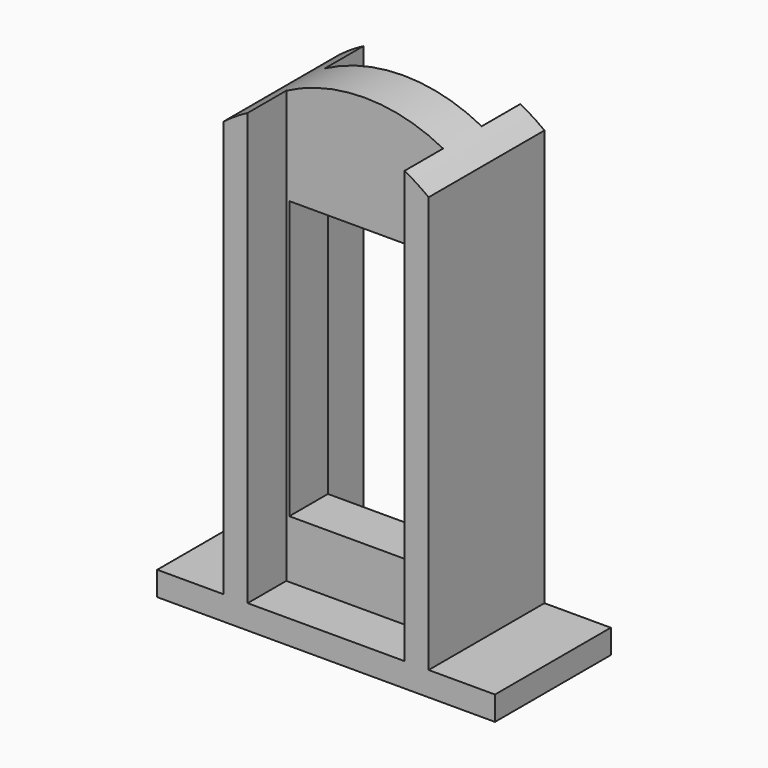
from build123d import *

# Parameters (mm, degrees)
PAD_DEPTH       = 6
SKETCH001_W     = 12.5
SKETCH001_H     = 23
POCKET_DEPTH    = 12.001
SKETCH002_W     = 13
SKETCH002_H     = 39
POCKET001_DEPTH = 4


with BuildPart() as part:
    # Sketch → Pad (new body, symmetric)
    with BuildSketch(Plane.XZ):
        with BuildLine():
            Line((-14, 0), (-14, 2))
            Line((-14, 2), (-8.5, 2))
            Line((-8.5, 2), (-8.5, 36.5))
            ThreePointArc((8.5, 36.5), (0, 39.380883), (-8.5, 36.5))
            Line((8.5, 2), (8.5, 36.5))
            Line((8.5, 2), (14, 2))
            Line((14, 2), (14, 0))
            Line((14, 0), (-14, 0))
        make_face()
    extrude(amount=PAD_DEPTH, both=True)

    # Sketch001 (on Face10 of Pad) → Pocket (cut, through all)
    with BuildSketch(Plane.XZ.offset(6)):
        with Locations((0, 18.3)):
            Rectangle(SKETCH001_W, SKETCH001_H)
    extrude(amount=-POCKET_DEPTH, mode=Mode.SUBTRACT)

    # Sketch002 (on Face5 of Pocket) → Pocket001 (cut)
    with BuildSketch(Plane.XZ.offset(6)):
        with Locations((0, 21.5)):
            Rectangle(SKETCH002_W, SKETCH002_H)
    pocket001 = extrude(amount=-POCKET001_DEPTH, mode=Mode.SUBTRACT)

    # Mirrored: Pocket001 across XZ
    add(pocket001.mirror(Plane.XZ), mode=Mode.SUBTRACT)


solid = part.part
